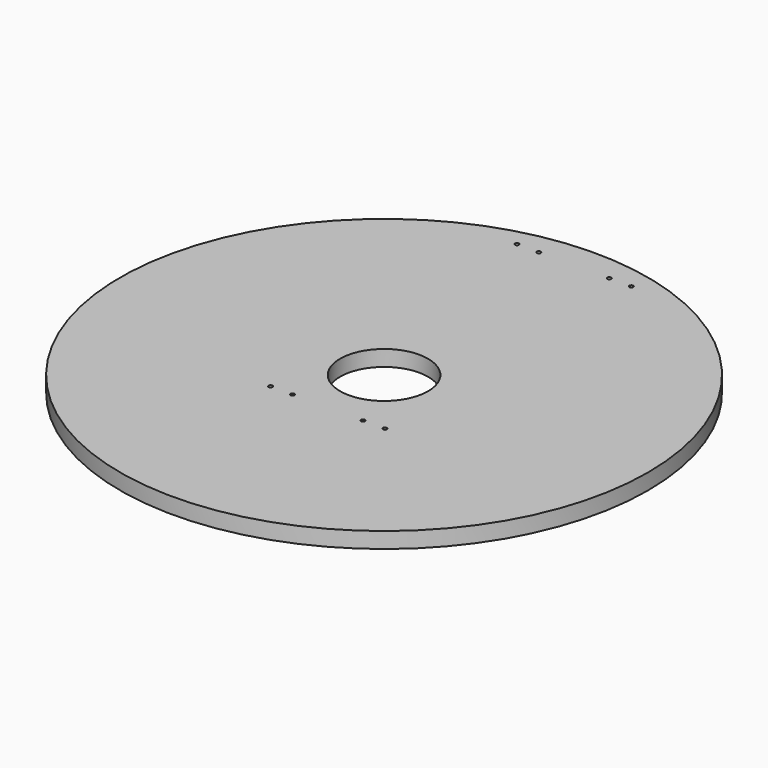
from build123d import *

# Parameters (mm, degrees)
F0_R     = 300
F0_R_2   = 2.25
F0_R_3   = 50
F1_DEPTH = 18


with BuildPart() as f1:
    # F0 (on Top) → F1 (new body)
    with BuildSketch(Plane.XY):
        Circle(F0_R)
        with Locations((-65, -80)):
            Circle(F0_R_2, mode=Mode.SUBTRACT)
        with Locations((-40, -80)):
            Circle(F0_R_2, mode=Mode.SUBTRACT)
        with Locations((40, -80)):
            Circle(F0_R_2, mode=Mode.SUBTRACT)
        with Locations((65, -80)):
            Circle(F0_R_2, mode=Mode.SUBTRACT)
        with Locations((-65, 270)):
            Circle(F0_R_2, mode=Mode.SUBTRACT)
        with Locations((-40, 270)):
            Circle(F0_R_2, mode=Mode.SUBTRACT)
        Circle(F0_R_3, mode=Mode.SUBTRACT)
        with Locations((40, 270)):
            Circle(F0_R_2, mode=Mode.SUBTRACT)
        with Locations((65, 270)):
            Circle(F0_R_2, mode=Mode.SUBTRACT)
    extrude(amount=F1_DEPTH)


solid = f1.part
